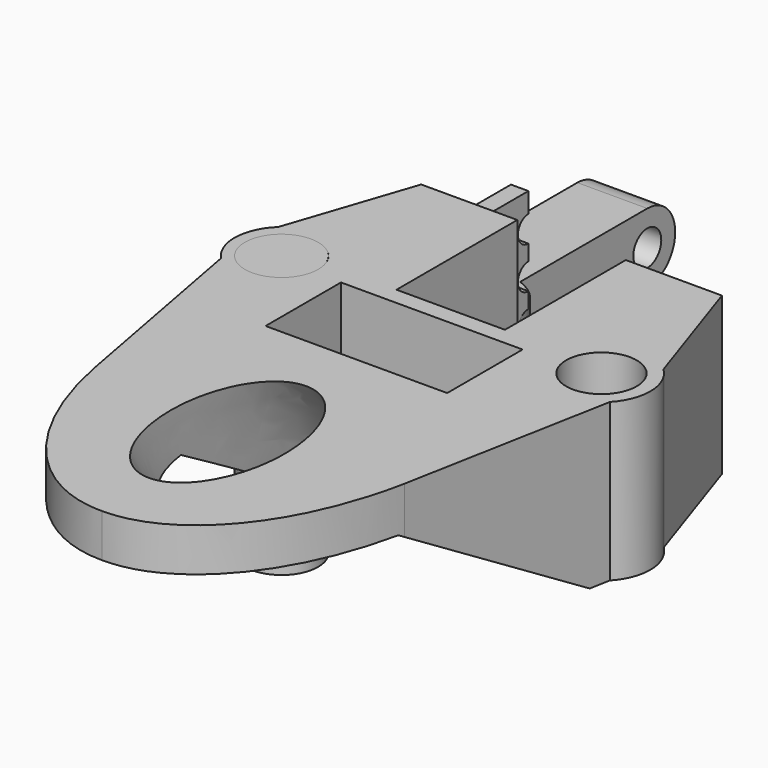
from build123d import *

# Parameters (mm, degrees)
SKETCH_R                = 2.02
PAD_DEPTH               = 14
POCKET001_DEPTH         = 30
SKETCH004_W             = 12.4
SKETCH004_H             = 7.4
SKETCH004_W_2           = 10.4
SKETCH004_H_2           = 5.4
PAD001_DEPTH            = 10
POCKET002_DEPTH         = 30
SKETCH015_W             = 50.223655
SKETCH015_H             = 52.5611
POCKET005_DEPTH         = 5
SKETCH016_W             = 24.660331
SKETCH016_H             = 12.288368
POCKET006_DEPTH         = 6
SKETCH007_W             = 11
SKETCH007_H             = 11
PAD002_DEPTH            = 1
SKETCH008_W             = 3.6
SKETCH008_H             = 3.605321
PAD003_DEPTH            = 4
SKETCH009_W             = 5
SKETCH009_H             = 5
PAD004_DEPTH            = 1
SKETCH010_R             = 0.75
POCKET003_DEPTH         = 1
BODY001_PITCH_ANGLE     = 90
BODY001_PLACEMENT_ANGLE = -180
SKETCH011_R             = 2.1
PAD005_DEPTH            = 15
SKETCH012_R             = 1
PAD006_DEPTH            = 6
SKETCH013_R             = 2.02
POCKET_DEPTH            = 4.001
POCKET004_DEPTH         = 4.001


with BuildPart() as body:
    # Sketch → Pad (new body)
    with BuildSketch(Plane(origin=(0, 0, -5), x_dir=(-1, 0, 0), z_dir=(0, 0, 1))):
        with BuildLine():
            ThreePointArc((-22.807044, 11.170922), (-23.574609, 9.168271), (-22.7, 7.21))
            Line((-22.7, 7.21), (-20.280569, 0))
            Line((-20.280569, 0), (-14.775631, 0))
            Line((-14.775631, 0), (-14.775631, 9.648484))
            Line((-14.775631, 9.648484), (-16.585631, 9.648484))
            Line((-16.585631, 9.648484), (-16.585631, 15.048484))
            Line((-16.585631, 15.048484), (-6.185631, 15.048484))
            Line((-6.185631, 15.048484), (-6.185631, 9.648484))
            Line((-6.185631, 9.648484), (-8.564369, 9.648484))
            Line((-8.564369, 9.648484), (-8.564369, 0))
            Line((-8.564369, 0), (-3.059431, 0))
            Line((-3.059431, 0), (-0.64, 7.21))
            ThreePointArc((-0.64, 7.21), (0.234609, 9.168271), (-0.532956, 11.170922))
            Line((-0.532956, 11.170922), (-2.759225, 23.078378))
            add(Edge.make_bspline(
                [(-2.759225, 23.078378), (-4.836633, 33.674375), (-11.67, 33.61)],
                knots=[5.005964, 5.005964, 5.005964, 6.283185, 6.283185, 6.283185], degree=2, weights=[1, 0.802925, 1]))
            add(Edge.make_bspline(
                [(-11.67, 33.61), (-18.503367, 33.674375), (-20.580775, 23.078378)],
                knots=[0, 0, 0, 1.277222, 1.277222, 1.277222], degree=2, weights=[1, 0.802925, 1]))
            Line((-20.580775, 23.078378), (-22.807044, 11.170922))
        make_face()
        with Locations((-20.775631, 9.243913)):
            Circle(SKETCH_R, mode=Mode.SUBTRACT)
        with Locations((-2.564369, 9.243913)):
            Circle(SKETCH_R, mode=Mode.SUBTRACT)
    extrude(amount=PAD_DEPTH)

    # Sketch002 → Pocket001 (cut)
    with BuildSketch(Plane.YZ.offset(25)):
        Polygon((-34.745795, 6.519755), (-34.745795, -0.002343), (-34.745795, -6.037062), (-12.345469, -6.037062), (-12.345469, 0), (-23.445795, 6.519755), align=None)
    extrude(amount=-POCKET001_DEPTH, mode=Mode.SUBTRACT)

    # Sketch004 → Pad001 (join)
    with BuildSketch(Plane.XY.offset(5)):
        with Locations((11.385631, -12.348484)):
            Rectangle(SKETCH004_W, SKETCH004_H)
        with Locations((11.385631, -12.348484)):
            Rectangle(SKETCH004_W_2, SKETCH004_H_2, mode=Mode.SUBTRACT)
    extrude(amount=PAD001_DEPTH)

    # Sketch005 (on DatumPlane) → Pocket002 (cut)
    with BuildSketch(Plane(origin=(21, -60.612527, -14.167412), x_dir=(-1, 0, 0), z_dir=(0, -0.615661, 0.788011))):
        with BuildLine():
            add(Edge.make_bspline(
                [(9.653419, -38.546647), (3.925039, -38.634912), (6.892477, -45.291539), (9.859915, -51.948166), (12.620857, -45.203274), (15.381799, -38.458382), (9.653419, -38.546647)],
                knots=[0, 0, 0, 2.094395, 2.094395, 4.18879, 4.18879, 6.283185, 6.283185, 6.283185], degree=2, weights=[1, 0.5, 1, 0.5, 1, 0.5, 1]))
        make_face()
    extrude(amount=-POCKET002_DEPTH, mode=Mode.SUBTRACT)

    # Sketch015 (on Face4 of Pocket002) → Pocket005 (cut)
    with BuildSketch(Plane(origin=(0, 0, -5), x_dir=(-1, 0, 0), z_dir=(0, 0, -1))):
        with Locations((-14.615174, -11.732603)):
            Rectangle(SKETCH015_W, SKETCH015_H)
    extrude(amount=-POCKET005_DEPTH, mode=Mode.SUBTRACT)

    # Sketch016 (on Face32 of Pocket005) → Pocket006 (cut)
    with BuildSketch(Plane(origin=(0, 0, 15), x_dir=(-1, 0, 0), z_dir=(0, 0, 1))):
        with Locations((-10.86301, 12.656899)):
            Rectangle(SKETCH016_W, SKETCH016_H)
    extrude(amount=-POCKET006_DEPTH, mode=Mode.SUBTRACT)


with BuildPart() as obj1:
    # Sketch007 → Pad002 (new body)
    with BuildSketch(Plane.XY):
        with Locations((5.5, 5.5)):
            Rectangle(SKETCH007_W, SKETCH007_H)
    extrude(amount=PAD002_DEPTH)

    # Sketch008 (on Face6 of Pad002) → Pad003 (join)
    with BuildSketch(Plane.XY.offset(1)):
        with Locations((8.348849, 7.826534)):
            Rectangle(SKETCH008_W, SKETCH008_H)
        with BuildLine():
            Line((9.848849, 9.323873), (9.848849, 8.093021))
            Line((9.848849, 8.093021), (9.357257, 8.093021))
            ThreePointArc((9.357257, 8.093021), (9.087014, 8.563955), (8.61783, 8.837225))
            Line((8.61783, 9.323873), (8.61783, 8.837225))
            Line((8.61783, 9.323873), (9.848849, 9.323873))
        make_face(mode=Mode.SUBTRACT)
        with BuildLine():
            Line((6.848849, 6.323873), (6.848849, 7.553021))
            Line((7.325327, 7.553021), (6.848849, 7.553021))
            ThreePointArc((7.325327, 7.553021), (7.59557, 7.082086), (8.064754, 6.808816))
            Line((8.064754, 6.808816), (8.064754, 6.323873))
            Line((6.848849, 6.323873), (8.064754, 6.323873))
        make_face(mode=Mode.SUBTRACT)
        with BuildLine():
            ThreePointArc((8.064754, 8.837225), (7.59557, 8.563955), (7.325327, 8.093021))
            Line((7.325327, 8.093021), (6.848849, 8.093021))
            Line((6.848849, 8.093021), (6.848849, 9.323873))
            Line((8.064754, 9.323873), (6.848849, 9.323873))
            Line((8.064754, 9.323873), (8.064754, 8.837225))
        make_face(mode=Mode.SUBTRACT)
        with BuildLine():
            Line((9.848849, 7.553021), (9.357257, 7.553021))
            ThreePointArc((8.61783, 6.808816), (9.087014, 7.082086), (9.357257, 7.553021))
            Line((8.61783, 6.808816), (8.61783, 6.323873))
            Line((8.61783, 6.323873), (9.848849, 6.323873))
            Line((9.848849, 7.553021), (9.848849, 6.323873))
        make_face(mode=Mode.SUBTRACT)
    extrude(amount=PAD003_DEPTH)

    # Sketch009 (on Face4 of Pad003) → Pad004 (join)
    with BuildSketch(Plane(origin=(0, 0, 0), x_dir=(1, 0, 0), z_dir=(0, 0, -1))):
        with Locations((7.469232, -7.591154)):
            Rectangle(SKETCH009_W, SKETCH009_H)
    extrude(amount=PAD004_DEPTH)

    # Sketch010 (on Face5 of Pad004) → Pocket003 (cut)
    with BuildSketch(Plane.XY.offset(1)):
        with Locations((1.9, 0)):
            Circle(SKETCH010_R)
        with Locations((4.3, 0)):
            Circle(SKETCH010_R)
        with Locations((6.7, 0)):
            Circle(SKETCH010_R)
        with Locations((9.1, 0)):
            Circle(SKETCH010_R)
    extrude(amount=-POCKET003_DEPTH, mode=Mode.SUBTRACT)


with BuildPart() as obj1_1:
    # Body001 pitch: moved
    add(obj1.part.rotate(Axis((0, 0, 0), (0, 1, 0)), BODY001_PITCH_ANGLE))


with BuildPart() as obj1_2:
    # Body001 placement: moved
    add(obj1_1.part.moved(Location((6, 4, 8))).rotate(Axis((6, 4, 8), (0, 0, 1)), BODY001_PLACEMENT_ANGLE))


with BuildPart() as framepost:
    # Sketch011 → Pad005 (new body)
    with BuildSketch(Plane.XY):
        Circle(SKETCH011_R)
    extrude(amount=PAD005_DEPTH)


with BuildPart() as framepost_1:
    # Body002 placement: moved
    add(framepost.part.moved(Location((2.5, -9.3, -6))))


with BuildPart() as antennaholder:
    # Sketch012 → Pad006 (new body)
    with BuildSketch(Plane.YZ):
        with BuildLine():
            ThreePointArc((15, -2), (17, 0), (15, 2))
            Line((0, 2), (15, 2))
            Line((0, -2), (0, 2))
            Line((15, -2), (0, -2))
        make_face()
        with Locations((15, 0)):
            Circle(SKETCH012_R, mode=Mode.SUBTRACT)
    extrude(amount=PAD006_DEPTH)

    # Sketch013 (on Face2 of Pad006) → Pocket (cut, through all)
    with BuildSketch(Plane(origin=(0, 0, 2), x_dir=(0, -1, 0), z_dir=(0, 0, 1))):
        with Locations((-3.071147, 3)):
            Circle(SKETCH013_R)
    extrude(amount=-POCKET_DEPTH, mode=Mode.SUBTRACT)

    # Sketch014 (on Face2 of Pad006) → Pocket004 (cut, through all)
    with BuildSketch(Plane(origin=(0, 0, 2), x_dir=(0, -1, 0), z_dir=(0, 0, 1))):
        with BuildLine():
            ThreePointArc((-3.073355, 1e-06), (-0.62176, 4.729069), (-5.89934, 4.006881))
            Line((-5.89934, 4.006881), (-23.036096, 4.006881))
            Line((-23.036096, 4.006881), (-23.999533, 10.49435))
            Line((-23.999533, 10.49435), (1.368674, 10.49435))
            Line((1.368674, 10.49435), (3.128618, -3.558247))
            Line((3.128618, -3.558247), (-3.073355, -3.558247))
            Line((-3.073355, 1e-06), (-3.073355, -3.558247))
        make_face()
    extrude(amount=-POCKET004_DEPTH, mode=Mode.SUBTRACT)


solid = Compound([body.part, obj1_2.part, framepost_1.part, antennaholder.part])
